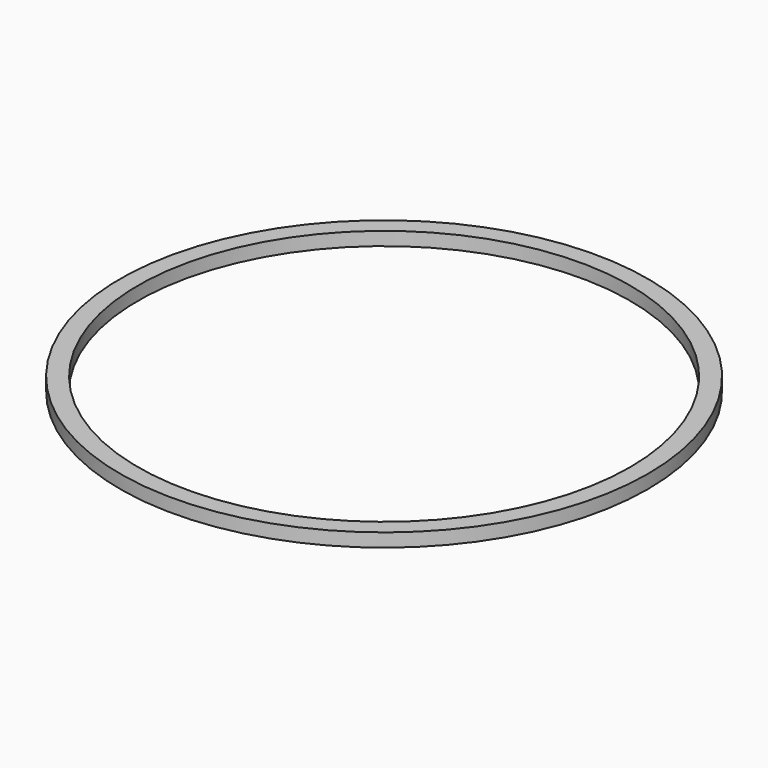
from build123d import *

# Parameters (mm, degrees)
F0_W = 20
F0_H = 15


with BuildPart() as f2:
    # F2: sweep along a path in F1
    with BuildLine(Plane.XY) as f2_path:
        CenterArc((-284.404151, -3.952613), 284.431616, 0, 360)
    # F0 (on Front) → F2 (sweep)
    with BuildSketch(Plane.XZ):
        Rectangle(F0_W, F0_H)
    sweep(path=f2_path.line)


solid = f2.part
